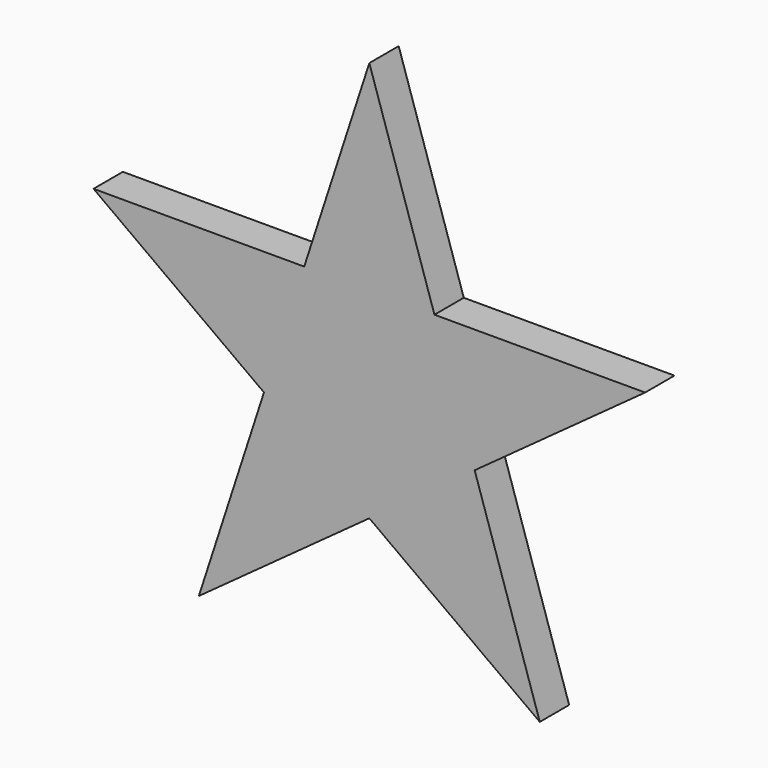
from build123d import *

# Parameters (mm, degrees)
F1_DEPTH = 25.4


with BuildPart() as f1:
    # F0 (on Front) → F1 (new body)
    with BuildSketch(Plane.XZ):
        Polygon((0, 200.811541158), (-45.085, 62.0541788844), (0, 62.0541788844), align=None)
        Polygon((0, 0), (-45.085, 62.0541788844), (-59.0170311914, 19.1757958473), align=None)
        Polygon((-59.0170311914, 19.1757958473), (-45.085, 62.0541788844), (-190.9831247656, 62.0541788844), align=None)
        Polygon((0, 62.0541788844), (-45.085, 62.0541788844), (0, 0), align=None)
        Polygon((0, 200.811541158), (0, 62.0541788844), (45.085, 62.0541788844), align=None)
        Polygon((45.085, 62.0541788844), (0, 62.0541788844), (0, 0), align=None)
        Polygon((0, 0), (-59.0170311914, 19.1757958473), (-72.9490623828, -23.7025871899), align=None)
        Polygon((-72.9490623828, -23.7025871899), (-59.0170311914, 19.1757958473), (-190.9831247656, 62.0541788844), align=None)
        Polygon((0, -76.7031833891), (0, 0), (-36.4745311914, -50.2028852895), align=None)
        Polygon((45.085, 62.0541788844), (0, 0), (59.0170311914, 19.1757958473), align=None)
        Polygon((72.9490623828, -23.7025871899), (0, 0), (36.4745311914, -50.2028852895), align=None)
        Polygon((-36.4745311914, -50.2028852895), (0, 0), (-72.9490623828, -23.7025871899), align=None)
        Polygon((36.4745311914, -50.2028852895), (0, 0), (0, -76.7031833891), align=None)
        Polygon((59.0170311914, 19.1757958473), (0, 0), (72.9490623828, -23.7025871899), align=None)
        Polygon((190.9831247656, 62.0541788844), (45.085, 62.0541788844), (59.0170311914, 19.1757958473), align=None)
        Polygon((-36.4745311914, -50.2028852895), (-72.9490623828, -23.7025871899), (-118.0340623828, -162.4599494634), align=None)
        Polygon((0, -76.7031833891), (-36.4745311914, -50.2028852895), (-118.0340623828, -162.4599494634), align=None)
        Polygon((190.9831247656, 62.0541788844), (59.0170311914, 19.1757958473), (72.9490623828, -23.7025871899), align=None)
        Polygon((118.0340623828, -162.4599494634), (36.4745311914, -50.2028852895), (0, -76.7031833891), align=None)
        Polygon((72.9490623828, -23.7025871899), (36.4745311914, -50.2028852895), (118.0340623828, -162.4599494634), align=None)
    extrude(amount=F1_DEPTH)


solid = f1.part
